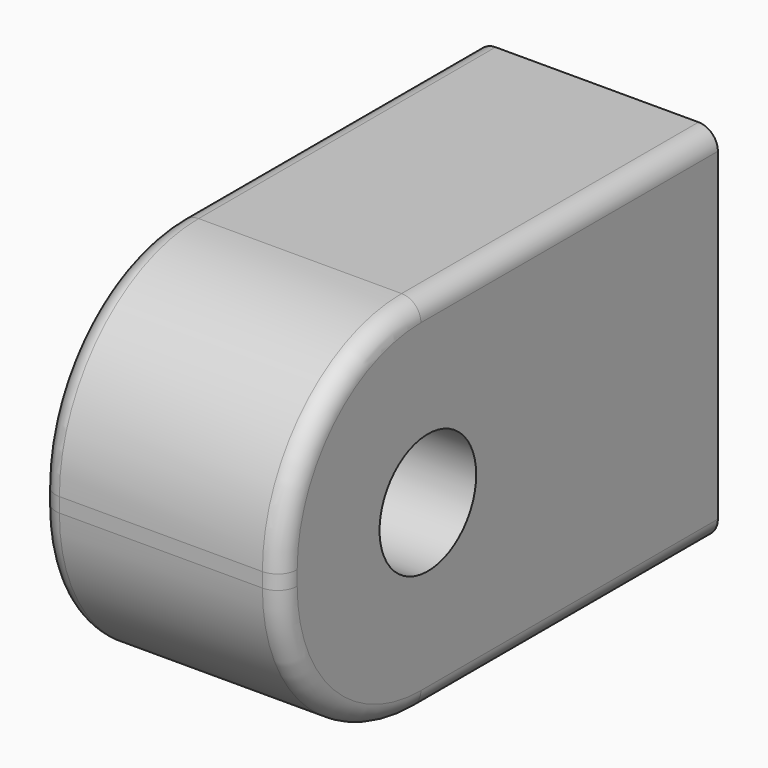
from build123d import *

# Parameters (mm, degrees)
F0_W          = 3.175
F0_H          = 4.7625
F1_DEPTH      = 7.1628
F2_R          = 2.286
F3_R          = 1.19126
F4_DEPTH      = 3.175
F5_R          = 0.79375
F6_DEPTH      = 25.4
F6_DEPTH_BACK = 25.4
F7_R          = 0.254


with BuildPart() as f1:
    # F0 (on Front) → F1 (new body)
    with BuildSketch(Plane.XZ):
        Rectangle(F0_W, F0_H)
    extrude(amount=F1_DEPTH)

    # F2
    f2_edges = [f1.edges().sort_by_distance(p)[0] for p in [
        (0, -7.1628, 2.38125),
        (0, -7.1628, -2.38125),
    ]]
    fillet(f2_edges, radius=F2_R)

    # F3 (on Front) → F4 (cut)
    with BuildSketch(Plane.XZ):
        Circle(F3_R)
    extrude(amount=F4_DEPTH, mode=Mode.SUBTRACT)

    # F5 (on Right) → F6 (cut, two sides)
    with BuildSketch(Plane.YZ) as f6_sk:
        with Locations((-4.7625, 0)):
            Circle(F5_R)
    extrude(amount=-F6_DEPTH, mode=Mode.SUBTRACT)
    extrude(f6_sk.sketch, amount=F6_DEPTH_BACK, mode=Mode.SUBTRACT)

    # F7
    f7_edges = [f1.edges().sort_by_distance(p)[0] for p in [
        (1.5875, -2.4384, 2.38125),
        (1.5875, -6.493246, 1.711696),
        (-1.5875, -6.493246, 1.711696),
        (-1.5875, -6.493246, -1.711696),
    ]]
    fillet(f7_edges, radius=F7_R)


solid = f1.part
